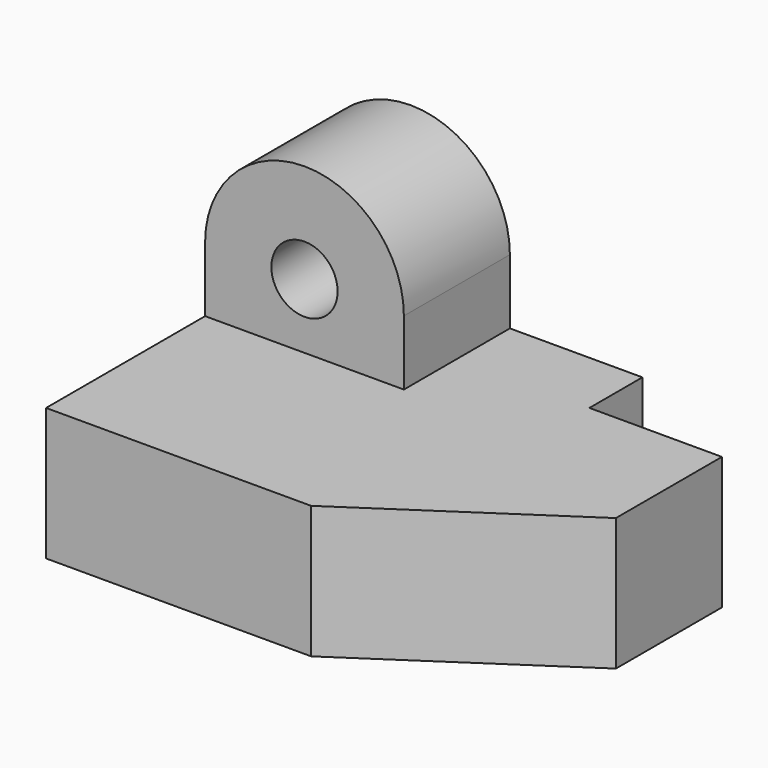
from build123d import *

# Parameters (mm, degrees)
F1_DEPTH = 20
F3_DEPTH = 20
F4_R     = 5
F5_DEPTH = 20


with BuildPart() as f1:
    # F0 (on Top) → F1 (new body)
    with BuildSketch(Plane.XY):
        Polygon((0, 50), (0, 0), (40, 0), (70, 20), (70, 40), (50, 40), (50, 50), align=None)
        Polygon((0, 50), (0, 0), (40, 0), (70, 20), (70, 40), (50, 40), (50, 50), align=None)
    extrude(amount=F1_DEPTH)

    # F2 (on face) → F3 (join)
    with BuildSketch(Plane(origin=(0, 50, 0), x_dir=(-1, 0, 0), z_dir=(0, 1, 0))):
        with BuildLine():
            Line((-3.633996, 20), (0, 20))
            Line((0, 20), (0, 29.788461))
            ThreePointArc((0, 29.788461), (-0.937816, 24.567831), (-3.633996, 20))
        make_face()
        with BuildLine():
            ThreePointArc((-26.366004, 20), (-29.062184, 24.567831), (-30, 29.788461))
            Line((-30, 29.788461), (-30, 20))
            Line((-30, 20), (-26.366004, 20))
        make_face()
        with BuildLine():
            Line((0, 0), (0, 20))
            Line((0, 20), (-3.633996, 20))
            ThreePointArc((-3.633996, 20), (-15, 14.788461), (-26.366004, 20))
            Line((-26.366004, 20), (-30, 20))
            Line((-30, 20), (-50, 20))
            Line((-50, 20), (-50, 0))
            Line((-50, 0), (0, 0))
        make_face()
        with BuildLine():
            Line((-30, 29.788461), (0, 29.788461))
            ThreePointArc((0, 29.788461), (-15, 44.788461), (-30, 29.788461))
        make_face()
        with BuildLine():
            ThreePointArc((-3.633996, 20), (-0.937816, 24.567831), (0, 29.788461))
            Line((0, 29.788461), (-30, 29.788461))
            ThreePointArc((-30, 29.788461), (-29.062184, 24.567831), (-26.366004, 20))
            Line((-26.366004, 20), (-3.633996, 20))
        make_face()
    extrude(amount=-F3_DEPTH)

    # F4 (on face) → F5 (cut, through all)
    with BuildSketch(Plane(origin=(0, 50, 0), x_dir=(-1, 0, 0), z_dir=(0, 1, 0))):
        with Locations((-15, 29.788461)):
            Circle(F4_R)
    extrude(amount=-F5_DEPTH, mode=Mode.SUBTRACT)


solid = f1.part
